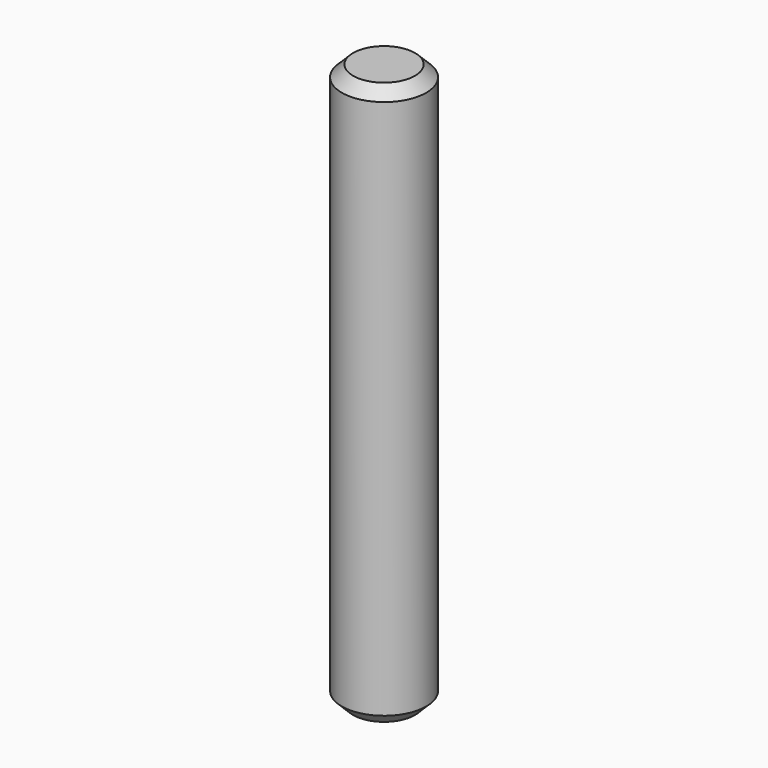
from build123d import *

# Parameters (mm, degrees)
F0_R     = 4.7625
F1_DEPTH = 63.5
F2_SIZE  = 1.27
F4_D     = 3.96875
F4_DEPTH = 60.325
F4_TIP   = 1.1923327909


with BuildPart() as f1:
    # F0 (on Top) → F1 (new body)
    with BuildSketch(Plane.XY):
        Circle(F0_R)
    extrude(amount=F1_DEPTH)

    # F2
    f2_edges = [f1.edges().sort_by_distance(p)[0] for p in [
        (-4.7625, 0, 63.5),
        (-4.7625, 0, 0),
    ]]
    chamfer(f2_edges, length=F2_SIZE)

    # F4
    with Locations(Plane(origin=(0, 0, 0), x_dir=(1, 0, 0), z_dir=(0, 0, -1))):
        with Locations((0, 0)):
            Hole(F4_D / 2, depth=F4_DEPTH)
            with Locations((0, 0, -(F4_DEPTH + F4_TIP / 2))):  # 118° drill point
                Cone(0, F4_D / 2, F4_TIP, mode=Mode.SUBTRACT)


solid = f1.part
